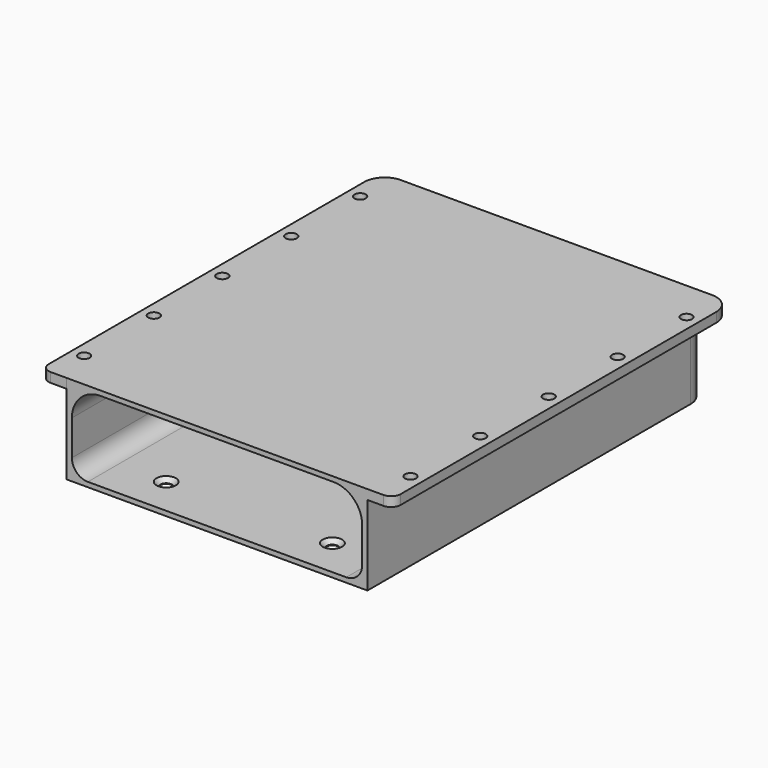
from build123d import *

# Parameters (mm, degrees)
SKETCH154_W      = 94.3
SKETCH154_H      = 133
PAD011_DEPTH     = 28
SKETCH155_W      = 91
SKETCH155_H      = 25
POCKET032_DEPTH  = 117.5
FILLET010_R      = 9
FILLET011_R      = 5
SKETCH157_W      = 133
SKETCH157_H      = 3
PAD012_DEPTH     = 8
SKETCH158_W      = 133
SKETCH158_H      = 3
PAD013_DEPTH     = 8
FILLET012_R      = 6.35
SKETCH159_W      = 79.65001
SKETCH159_H      = 12
POCKET033_DEPTH  = 14
SKETCH160_W      = 18.3
SKETCH160_H      = 4.3
POCKET034_DEPTH  = 2
FILLET013_R      = 2
SKETCH164_R      = 1.75
POCKET037_DEPTH  = 3
FILLET017_R      = 3
FILLET018_R      = 1
HOLE_D           = 3.5
HOLE_DEPTH       = 25
HOLE_CSINK_D     = 6.1
HOLE_CSINK_ANGLE = 90


with BuildPart() as part:
    # Sketch154 → Pad011 (new body)
    with BuildSketch(Plane.XY):
        with Locations((647.15, 166.5)):
            Rectangle(SKETCH154_W, SKETCH154_H)
    extrude(amount=PAD011_DEPTH)

    # Sketch155 (on Face1 of Pad011) → Pocket032 (cut)
    with BuildSketch(Plane.XZ.offset(-100)):
        with Locations((647.149987, 13.999999)):
            Rectangle(SKETCH155_W, SKETCH155_H)
    extrude(amount=-POCKET032_DEPTH, mode=Mode.SUBTRACT)

    # Fillet010
    fillet010_edges = [part.edges().sort_by_distance(p)[0] for p in [
        (692.649987, 158.75, 26.499999),
        (601.649987, 158.75, 26.499999),
    ]]
    fillet(fillet010_edges, radius=FILLET010_R)

    # Fillet011
    fillet011_edges = [part.edges().sort_by_distance(p)[0] for p in [
        (601.649987, 158.75, 1.499999),
        (692.649987, 158.75, 1.499999),
    ]]
    fillet(fillet011_edges, radius=FILLET011_R)

    # Sketch157 (on Face13 of Fillet011) → Pad012 (join)
    with BuildSketch(Plane.YZ.offset(694.3)):
        with Locations((166.5, 26.5)):
            Rectangle(SKETCH157_W, SKETCH157_H)
    extrude(amount=PAD012_DEPTH)

    # Sketch158 (on Face10 of Pad012) → Pad013 (join)
    with BuildSketch(Plane(origin=(600, 0, 0), x_dir=(0, -1, 0), z_dir=(-1, 0, 0))):
        with Locations((-166.500003, 26.5)):
            Rectangle(SKETCH158_W, SKETCH158_H)
    extrude(amount=PAD013_DEPTH)

    # Fillet012
    fillet012_edges = [part.edges().sort_by_distance(p)[0] for p in [
        (600, 233, 12.5),
        (694.3, 233, 12.5),
        (702.3, 233, 26.5),
        (592, 233.000003, 26.5),
    ]]
    fillet(fillet012_edges, radius=FILLET012_R)

    # Sketch159 (on Face10 of Fillet012) → Pocket033 (cut)
    with BuildSketch(Plane(origin=(0, 233, 0), x_dir=(-1, 0, 0), z_dir=(0, 1, 0))):
        with Locations((-647.174991, 14)):
            Rectangle(SKETCH159_W, SKETCH159_H)
    extrude(amount=-POCKET033_DEPTH, mode=Mode.SUBTRACT)

    # Sketch160 (on Face35 of Pocket033) → Pocket034 (cut)
    with BuildSketch(Plane(origin=(0, 219, 0), x_dir=(-1, 0, 0), z_dir=(0, 1, 0))):
        with Locations((-647.199985, 14.05)):
            Rectangle(SKETCH160_W, SKETCH160_H)
    extrude(amount=-POCKET034_DEPTH, mode=Mode.SUBTRACT)

    # Fillet013
    fillet013_edges = [part.edges().sort_by_distance(p)[0] for p in [
        (638.049985, 218.25, 11.9),
        (638.049985, 218.25, 16.2),
        (656.349985, 218.25, 16.2),
        (656.349985, 218.25, 11.9),
    ]]
    fillet(fillet013_edges, radius=FILLET013_R)

    # Sketch164 (on Face26 of Fillet013) → Pocket037 (cut)
    with BuildSketch(Plane.XY.offset(28)):
        with Locations((698.30001, 111.85331)):
            Circle(SKETCH164_R)
        with Locations((596, 111.85331)):
            Circle(SKETCH164_R)
        with Locations((596, 139.168671)):
            Circle(SKETCH164_R)
        with Locations((698.30001, 139.168671)):
            Circle(SKETCH164_R)
        with Locations((698.30001, 166.000002)):
            Circle(SKETCH164_R)
        with Locations((698.30001, 193)):
            Circle(SKETCH164_R)
        with Locations((698.30001, 219.999573)):
            Circle(SKETCH164_R)
        with Locations((596, 219.999573)):
            Circle(SKETCH164_R)
        with Locations((596, 193)):
            Circle(SKETCH164_R)
        with Locations((596, 166)):
            Circle(SKETCH164_R)
    extrude(amount=-POCKET037_DEPTH, mode=Mode.SUBTRACT)

    # Fillet017
    fillet017_edges = [part.edges().sort_by_distance(p)[0] for p in [
        (592, 100.000003, 26.5),
        (702.3, 100, 26.5),
    ]]
    fillet(fillet017_edges, radius=FILLET017_R)

    # Fillet018
    fillet018_edges = [part.edges().sort_by_distance(p)[0] for p in [
        (607.349986, 226, 20),
        (607.349986, 226, 8),
        (686.999996, 226, 8),
        (686.999996, 226, 20),
    ]]
    fillet(fillet018_edges, radius=FILLET018_R)

    # Hole
    with Locations(Plane.XY.offset(1.499999)):
        with Locations((621.615906, 112), (673.700684, 112)):
            CounterSinkHole(HOLE_D / 2, HOLE_CSINK_D / 2, depth=HOLE_DEPTH, counter_sink_angle=HOLE_CSINK_ANGLE)


solid = part.part
